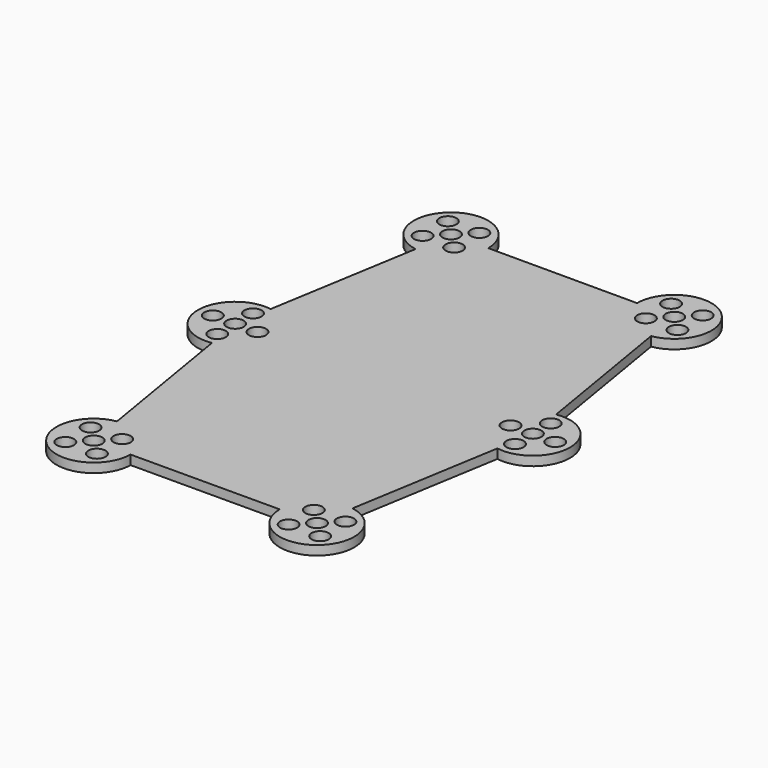
from build123d import *

# Parameters (mm, degrees)
F0_R     = 2.3
F1_DEPTH = 2.5


with BuildPart() as f1:
    # F0 (on Top) → F1 (new body)
    with BuildSketch(Plane.XY):
        with BuildLine():
            Line((-31.64399, 50.136061), (-38.35601, 9.863939))
            ThreePointArc((-38.35601, 9.863939), (-50, 0), (-38.35601, -9.863939))
            Line((-38.35601, -9.863939), (-31.64399, -50.136061))
            ThreePointArc((-31.64399, -50.136061), (-36.516243, -67.585419), (-20.000952, -60.137994))
            Line((-20.000952, -60.137994), (20.000038, -60.027598))
            ThreePointArc((20.000038, -60.027598), (36.474272, -67.621273), (31.64399, -50.136061))
            Line((31.64399, -50.136061), (38.35601, -9.863939))
            ThreePointArc((38.35601, -9.863939), (50, 0), (38.35601, 9.863939))
            Line((38.35601, 9.863939), (31.64399, 50.136061))
            ThreePointArc((31.64399, 50.136061), (36.463749, 67.6302), (20, 60))
            Line((20, 60), (-20, 60))
            ThreePointArc((-20, 60), (-36.463749, 67.6302), (-31.64399, 50.136061))
        make_face()
        with Locations((-34.242641, -64.242641)):
            Circle(F0_R, mode=Mode.SUBTRACT)
        with Locations((-25.757359, -64.242641)):
            Circle(F0_R, mode=Mode.SUBTRACT)
        with Locations((-34.242641, -55.757359)):
            Circle(F0_R, mode=Mode.SUBTRACT)
        with Locations((-30, -60)):
            Circle(F0_R, mode=Mode.SUBTRACT)
        with Locations((-25.757359, -55.757359)):
            Circle(F0_R, mode=Mode.SUBTRACT)
        with Locations((-40, -6)):
            Circle(F0_R, mode=Mode.SUBTRACT)
        with Locations((25.757359, -64.242641)):
            Circle(F0_R, mode=Mode.SUBTRACT)
        with Locations((34.242641, -64.242641)):
            Circle(F0_R, mode=Mode.SUBTRACT)
        with Locations((30, -60)):
            Circle(F0_R, mode=Mode.SUBTRACT)
        with Locations((25.757359, -55.757359)):
            Circle(F0_R, mode=Mode.SUBTRACT)
        with Locations((34.242641, -55.757359)):
            Circle(F0_R, mode=Mode.SUBTRACT)
        with Locations((40, -6)):
            Circle(F0_R, mode=Mode.SUBTRACT)
        with Locations((-46, 0)):
            Circle(F0_R, mode=Mode.SUBTRACT)
        with Locations((-40, 0)):
            Circle(F0_R, mode=Mode.SUBTRACT)
        with Locations((-40, 6)):
            Circle(F0_R, mode=Mode.SUBTRACT)
        with Locations((-34, 0)):
            Circle(F0_R, mode=Mode.SUBTRACT)
        with Locations((-34.242641, 55.757359)):
            Circle(F0_R, mode=Mode.SUBTRACT)
        with Locations((-25.757359, 55.757359)):
            Circle(F0_R, mode=Mode.SUBTRACT)
        with Locations((-30, 60)):
            Circle(F0_R, mode=Mode.SUBTRACT)
        with Locations((-34.242641, 64.242641)):
            Circle(F0_R, mode=Mode.SUBTRACT)
        with Locations((-25.757359, 64.242641)):
            Circle(F0_R, mode=Mode.SUBTRACT)
        with Locations((34, 0)):
            Circle(F0_R, mode=Mode.SUBTRACT)
        with Locations((40, 0)):
            Circle(F0_R, mode=Mode.SUBTRACT)
        with Locations((40, 6)):
            Circle(F0_R, mode=Mode.SUBTRACT)
        with Locations((46, 0)):
            Circle(F0_R, mode=Mode.SUBTRACT)
        with Locations((25.757359, 55.757359)):
            Circle(F0_R, mode=Mode.SUBTRACT)
        with Locations((30, 60)):
            Circle(F0_R, mode=Mode.SUBTRACT)
        with Locations((34.242641, 55.757359)):
            Circle(F0_R, mode=Mode.SUBTRACT)
        with Locations((25.757359, 64.242641)):
            Circle(F0_R, mode=Mode.SUBTRACT)
        with Locations((34.242641, 64.242641)):
            Circle(F0_R, mode=Mode.SUBTRACT)
    extrude(amount=F1_DEPTH)


solid = f1.part
